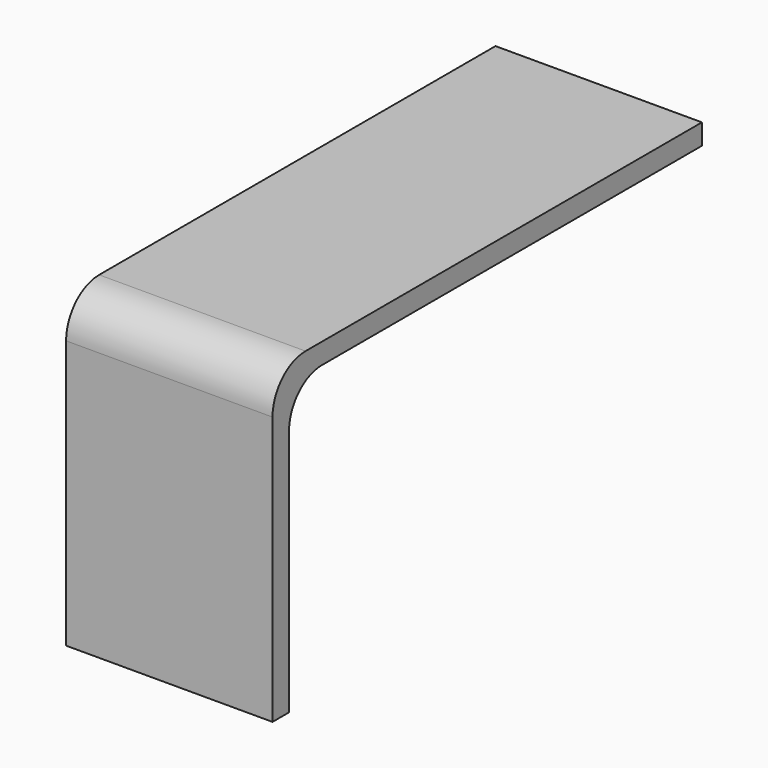
from build123d import *

# Parameters (mm, degrees)
F1_DEPTH = 50


with BuildPart() as f1:
    # F0 (on Right) → F1 (new body)
    with BuildSketch(Plane.YZ):
        with BuildLine():
            Line((85.711445, 45.61617), (-34.288555, 45.61617))
            ThreePointArc((-34.288555, 45.61617), (-41.359622, 42.687238), (-44.288555, 35.61617))
            Line((-44.288555, 35.61617), (-44.288555, -29.38383))
            Line((-44.288555, -29.38383), (-39.288555, -29.38383))
            Line((-39.288555, -29.38383), (-39.288555, 30.61617))
            ThreePointArc((-39.288555, 30.61617), (-36.359622, 37.687238), (-29.288555, 40.61617))
            Line((-29.288555, 40.61617), (85.711445, 40.61617))
            Line((85.711445, 40.61617), (85.711445, 45.61617))
        make_face()
    extrude(amount=F1_DEPTH)


solid = f1.part
